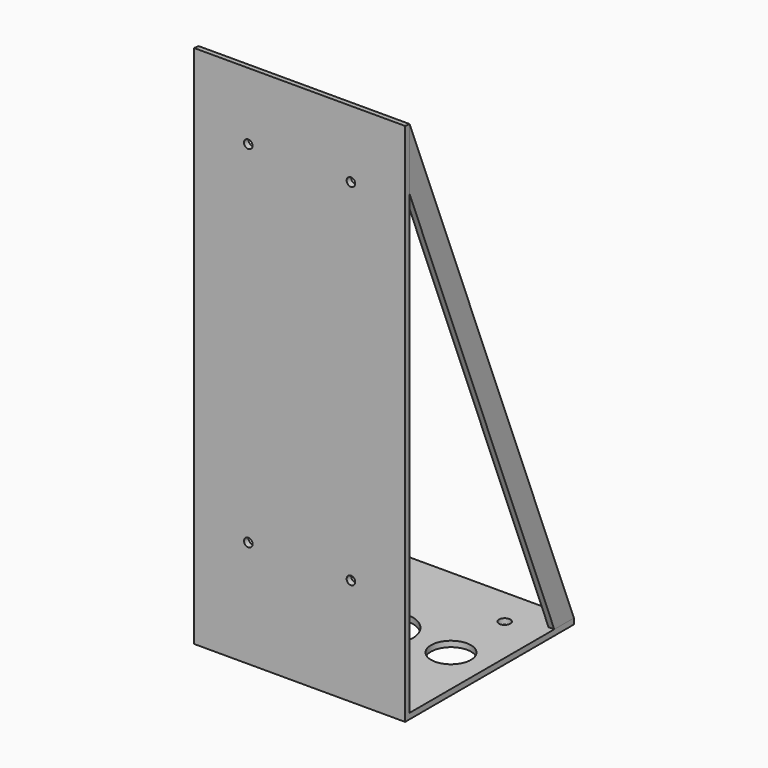
from build123d import *

# Parameters (mm, degrees)
F0_W      = 234.95
F0_H      = 234.95
F1_DEPTH  = 584.2
F3_DEPTH  = 234.951
F5_DEPTH  = 25.4
F6_DEPTH  = 25.4
F7_W      = 439.5717488766
F7_H      = 605.656187439
F8_DEPTH  = 234.951
F10_DEPTH = 6.35
F12_DEPTH = 6.35
F13_R     = 6.35
F13_R_2   = 22.225
F13_R_3   = 31.75
F14_DEPTH = 584.201
F15_DEPTH = 25.4
F17_DEPTH = 234.951
F19_DEPTH = 234.951


with BuildPart() as f1:
    # F0 (on Top) → F1 (new body)
    with BuildSketch(Plane.XY):
        with Locations((-117.475, 117.475)):
            Rectangle(F0_W, F0_H)
    extrude(amount=F1_DEPTH)

    # F2 (on face) → F3 (cut, through all)
    with BuildSketch(Plane.YZ):
        Polygon((0, 584.2), (234.95, 558.8), (234.95, 584.2), align=None)
    extrude(amount=-F3_DEPTH, mode=Mode.SUBTRACT)

    # F4 (on face) → F5 (cut)
    with BuildSketch(Plane.XZ):
        with BuildLine():
            ThreePointArc((-55.5625, 119.0625), (-56.9574039546, 122.4300960454), (-60.325, 123.825))
            ThreePointArc((-60.325, 123.825), (-63.6925960454, 115.6949039546), (-55.5625, 119.0625))
        make_face()
        with BuildLine():
            ThreePointArc((-55.5625, 509.5875), (-60.325, 514.35), (-65.0875, 509.5875))
            Line((-65.0875, 509.5875), (-60.325, 509.5875))
            Line((-60.325, 509.5875), (-60.325, 504.825))
            ThreePointArc((-60.325, 504.825), (-56.9574039546, 506.2199039546), (-55.5625, 509.5875))
        make_face()
        with BuildLine():
            Line((-60.325, 509.5875), (-65.0875, 509.5875))
            ThreePointArc((-65.0875, 509.5875), (-63.6925960454, 506.2199039546), (-60.325, 504.825))
            Line((-60.325, 504.825), (-60.325, 509.5875))
        make_face()
        with BuildLine():
            ThreePointArc((-169.8625, 119.0625), (-171.2574039546, 122.4300960454), (-174.625, 123.825))
            ThreePointArc((-174.625, 123.825), (-177.9925960454, 115.6949039546), (-169.8625, 119.0625))
        make_face()
        with BuildLine():
            ThreePointArc((-174.625, 504.825), (-171.2574039546, 506.2199039546), (-169.8625, 509.5875))
            Line((-169.8625, 509.5875), (-174.625, 509.5875))
            Line((-174.625, 509.5875), (-174.625, 504.825))
        make_face()
        with BuildLine():
            Line((-174.625, 509.5875), (-169.8625, 509.5875))
            ThreePointArc((-169.8625, 509.5875), (-177.9925960454, 512.9550960454), (-174.625, 504.825))
            Line((-174.625, 504.825), (-174.625, 509.5875))
        make_face()
    extrude(amount=-F5_DEPTH, mode=Mode.SUBTRACT)

    # F4 (on face) → F6 (cut)
    with BuildSketch(Plane.XZ):
        with BuildLine():
            ThreePointArc((-55.5625, 119.0625), (-56.9574039546, 122.4300960454), (-60.325, 123.825))
            ThreePointArc((-60.325, 123.825), (-63.6925960454, 115.6949039546), (-55.5625, 119.0625))
        make_face()
        with BuildLine():
            ThreePointArc((-55.5625, 509.5875), (-60.325, 514.35), (-65.0875, 509.5875))
            Line((-65.0875, 509.5875), (-60.325, 509.5875))
            Line((-60.325, 509.5875), (-60.325, 504.825))
            ThreePointArc((-60.325, 504.825), (-56.9574039546, 506.2199039546), (-55.5625, 509.5875))
        make_face()
        with BuildLine():
            Line((-60.325, 509.5875), (-65.0875, 509.5875))
            ThreePointArc((-65.0875, 509.5875), (-63.6925960454, 506.2199039546), (-60.325, 504.825))
            Line((-60.325, 504.825), (-60.325, 509.5875))
        make_face()
        with BuildLine():
            ThreePointArc((-169.8625, 119.0625), (-171.2574039546, 122.4300960454), (-174.625, 123.825))
            ThreePointArc((-174.625, 123.825), (-177.9925960454, 115.6949039546), (-169.8625, 119.0625))
        make_face()
        with BuildLine():
            ThreePointArc((-174.625, 504.825), (-171.2574039546, 506.2199039546), (-169.8625, 509.5875))
            Line((-169.8625, 509.5875), (-174.625, 509.5875))
            Line((-174.625, 509.5875), (-174.625, 504.825))
        make_face()
        with BuildLine():
            Line((-174.625, 509.5875), (-169.8625, 509.5875))
            ThreePointArc((-169.8625, 509.5875), (-177.9925960454, 512.9550960454), (-174.625, 504.825))
            Line((-174.625, 504.825), (-174.625, 509.5875))
        make_face()
    extrude(amount=-F6_DEPTH, mode=Mode.SUBTRACT)

    # F7 (on face) → F8 (cut, through all)
    with BuildSketch(Plane.YZ):
        with Locations((226.1358744383, 309.1780937195)):
            Rectangle(F7_W, F7_H)
    extrude(amount=-F8_DEPTH, mode=Mode.SUBTRACT)

    # F11 (on face) → F12 (join)
    with BuildSketch(Plane(origin=(-234.95, 0, 0), x_dir=(0, -1, 0), z_dir=(-1, 0, 0))):
        Polygon((-6.35, 6.35), (-6.35, 583.5135135135), (-234.95, 6.35), align=None)
    extrude(amount=-F12_DEPTH)

    # F13 (on face) → F14 (cut, through all)
    with BuildSketch(Plane(origin=(0, 0, 0), x_dir=(1, 0, 0), z_dir=(0, 0, -1))):
        with Locations((-192.0875, -42.8625)):
            Circle(F13_R)
        with Locations((-42.8625, -42.8625)):
            Circle(F13_R)
        with Locations((-42.8625, -192.0875)):
            Circle(F13_R)
        with Locations((-192.0875, -192.0875)):
            Circle(F13_R)
        with Locations((-42.8625, -117.475)):
            Circle(F13_R_2)
        with Locations((-117.475, -117.475)):
            Circle(F13_R_3)
    extrude(amount=-F14_DEPTH, mode=Mode.SUBTRACT)

    # F13 (on face) → F15 (cut)
    with BuildSketch(Plane(origin=(0, 0, 0), x_dir=(1, 0, 0), z_dir=(0, 0, -1))):
        with Locations((-192.0875, -42.8625)):
            Circle(F13_R)
        with Locations((-42.8625, -42.8625)):
            Circle(F13_R)
        with Locations((-42.8625, -192.0875)):
            Circle(F13_R)
        with Locations((-192.0875, -192.0875)):
            Circle(F13_R)
        with Locations((-42.8625, -117.475)):
            Circle(F13_R_2)
        with Locations((-117.475, -117.475)):
            Circle(F13_R_3)
    extrude(amount=-F15_DEPTH, mode=Mode.SUBTRACT)


with BuildPart() as f10:
    # F9 (on face) → F10 (new body)
    with BuildSketch(Plane.YZ):
        Polygon((234.95, 6.35), (6.35, 583.5135135135), (6.35, 6.35), align=None)
    extrude(amount=-F10_DEPTH)


with BuildPart() as f17_tool:
    # F16 (on face) → F17 (new body, through all)
    with BuildSketch(Plane.YZ):
        Polygon((207.6302323857, 6.35), (97.0348650139, 285.5783937471), (6.35, 514.5372533882), (6.35, 6.35), align=None)
    extrude(amount=-F17_DEPTH)


with BuildPart() as f1_1:
    add(f1.part)

    # F17: cut by f17_tool
    add(f17_tool.part, mode=Mode.SUBTRACT)

    # F18 (on face) → F19 (cut, through all)
    with BuildSketch(Plane(origin=(-234.95, 0, 0), x_dir=(0, -1, 0), z_dir=(-1, 0, 0))):
        Polygon((-6.35, 514.5372533882), (-97.0348650139, 285.5783937471), (-207.6302323857, 6.35), (-6.35, 6.35), align=None)
    extrude(amount=-F19_DEPTH, mode=Mode.SUBTRACT)


with BuildPart() as f10_1:
    add(f10.part)

    # F17: cut by f17_tool
    add(f17_tool.part, mode=Mode.SUBTRACT)


solid = Compound([f1_1.part, f10_1.part])
